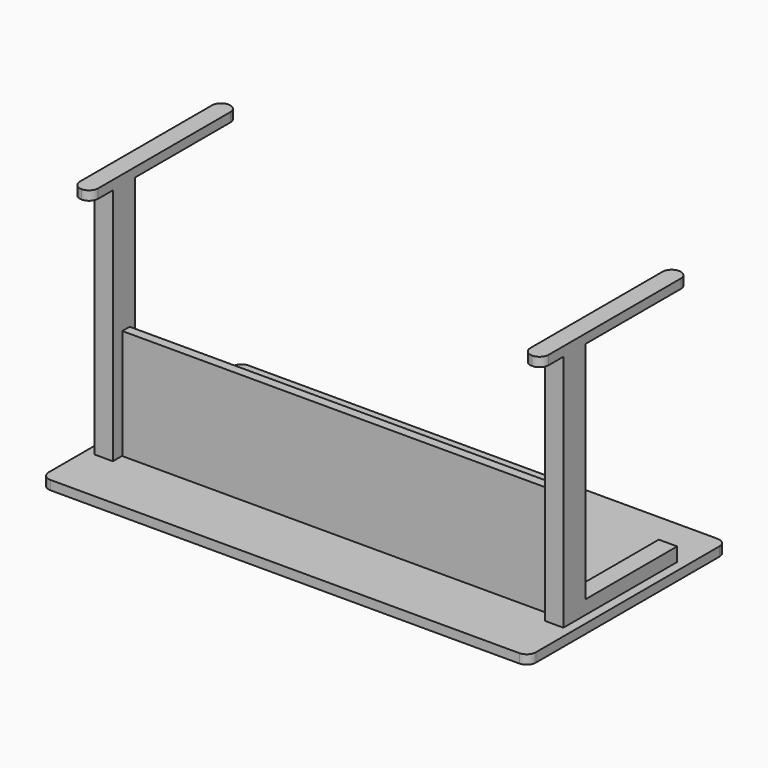
from build123d import *

# Parameters (mm, degrees)
F0_W      = 1348.74
F0_H      = 685.8
F1_DEPTH  = 25.4
F3_W      = 50.8
F3_H      = 317.5
F4_DEPTH  = 38.1
F5_W      = 50.8
F5_H      = 76.2
F6_DEPTH  = 660.4
F8_DEPTH  = 25.4
F9_W      = 1194.675028
F9_H      = 25.596991
F10_DEPTH = 304.8
F11_R     = 25.4
F12_R     = 25.4
F13_R     = 25.4
F14_R     = 25.4


with BuildPart() as f1:
    # F0 (on Top) → F1 (new body)
    with BuildSketch(Plane.XY):
        Rectangle(F0_W, F0_H)
    extrude(amount=F1_DEPTH)

    # F3 (on face) → F4 (join)
    with BuildSketch(Plane.XY.offset(25.4)):
        with Locations((-623.57, 44.45)):
            Rectangle(F3_W, F3_H)
        with Locations((623.57, 44.45)):
            Rectangle(F3_W, F3_H)
    extrude(amount=F4_DEPTH)

    # F5 (on face) → F6 (join)
    with BuildSketch(Plane.XY.offset(25.4)):
        with Locations((-623.57, -152.4)):
            Rectangle(F5_W, F5_H)
        with Locations((623.57, -152.4)):
            Rectangle(F5_W, F5_H)
    extrude(amount=F6_DEPTH)

    # F7 (on face) → F8 (join)
    with BuildSketch(Plane.XY.offset(685.8)):
        with BuildLine():
            ThreePointArc((-623.57, 241.3), (-641.530512, 233.860512), (-648.97, 215.9))
            Line((-648.97, 215.9), (-648.97, -241.3))
            ThreePointArc((-648.97, -241.3), (-641.530512, -259.260512), (-623.57, -266.7))
            ThreePointArc((-623.57, -266.7), (-605.609488, -259.260512), (-598.17, -241.3))
            Line((-598.17, -241.3), (-598.17, 215.9))
            ThreePointArc((-598.17, 215.9), (-605.609488, 233.860512), (-623.57, 241.3))
        make_face()
        with BuildLine():
            Line((648.97, -241.3), (648.97, 215.9))
            ThreePointArc((648.97, 215.9), (641.530512, 233.860512), (623.57, 241.3))
            ThreePointArc((623.57, 241.3), (605.609488, 233.860512), (598.17, 215.9))
            Line((598.17, 215.9), (598.17, -241.3))
            ThreePointArc((598.17, -241.3), (605.609488, -259.260512), (623.57, -266.7))
            ThreePointArc((623.57, -266.7), (641.530512, -259.260512), (648.97, -241.3))
        make_face()
    extrude(amount=F8_DEPTH)

    # F9 (on face) → F10 (join)
    with BuildSketch(Plane.XY.offset(25.4)):
        with Locations((-0.20507, -145.966001)):
            Rectangle(F9_W, F9_H)
    extrude(amount=F10_DEPTH)

    # F11
    f11_edges = [f1.edges().sort_by_distance(p)[0] for p in [
        (-674.37, 342.9, 12.7),
    ]]
    fillet(f11_edges, radius=F11_R)

    # F12
    f12_edges = [f1.edges().sort_by_distance(p)[0] for p in [
        (-674.37, -342.9, 12.7),
    ]]
    fillet(f12_edges, radius=F12_R)

    # F13
    f13_edges = [f1.edges().sort_by_distance(p)[0] for p in [
        (674.37, -342.9, 12.7),
    ]]
    fillet(f13_edges, radius=F13_R)

    # F14
    f14_edges = [f1.edges().sort_by_distance(p)[0] for p in [
        (674.37, 342.9, 12.7),
    ]]
    fillet(f14_edges, radius=F14_R)


solid = f1.part
